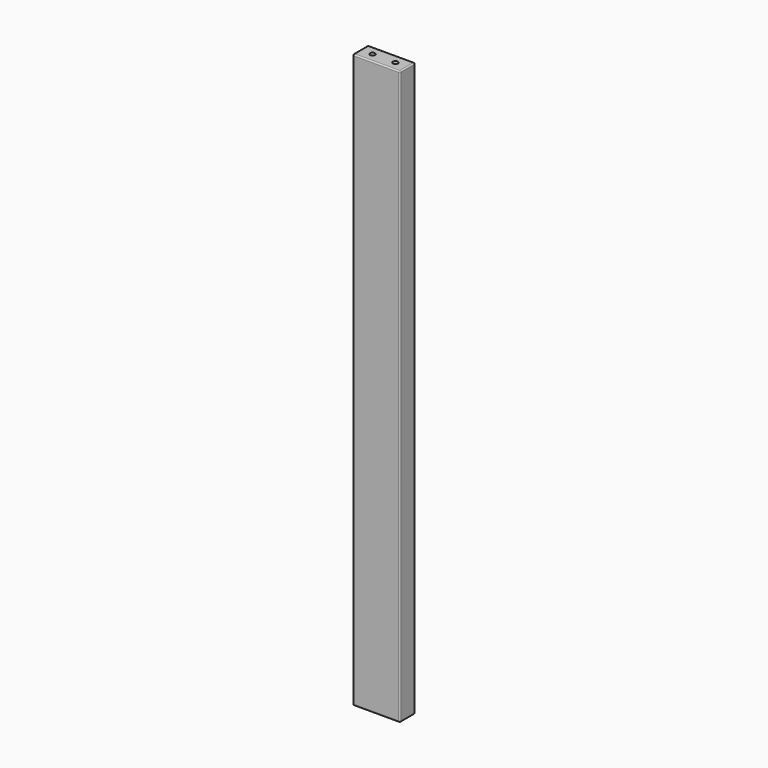
from build123d import *

# Parameters (mm, degrees)
F0_W     = 37
F0_H     = 15
F1_DEPTH = 450
F2_W     = 31
F2_H     = 444
F3_DEPTH = 12
F4_R     = 2
F5_DEPTH = 450.001
F6_R     = 1
F7_R     = 1


with BuildPart() as f1:
    # F0 (on Top) → F1 (new body)
    with BuildSketch(Plane.XY):
        Rectangle(F0_W, F0_H)
    extrude(amount=F1_DEPTH)

    # F2 (on face) → F3 (cut)
    with BuildSketch(Plane(origin=(0, 7.5, 0), x_dir=(-1, 0, 0), z_dir=(0, 1, 0))):
        with Locations((0, 225)):
            Rectangle(F2_W, F2_H)
    extrude(amount=-F3_DEPTH, mode=Mode.SUBTRACT)

    # F4 (on face) → F5 (cut, through all)
    with BuildSketch(Plane.XY.offset(450)):
        with Locations((9, 0)):
            Circle(F4_R)
        with Locations((-9, 0)):
            Circle(F4_R)
    extrude(amount=-F5_DEPTH, mode=Mode.SUBTRACT)

    # F6
    f6_edges = [f1.edges().sort_by_distance(p)[0] for p in [
        (-18.5, 0, 450),
        (18.5, 0, 450),
        (-18.5, 0, 0),
        (18.5, 0, 0),
    ]]
    fillet(f6_edges, radius=F6_R)

    # F7
    f7_edges = [f1.edges().sort_by_distance(p)[0] for p in [
        (18.5, -7.5, 225),
        (18.5, 7.5, 225),
    ]]
    fillet(f7_edges, radius=F7_R)


solid = f1.part
